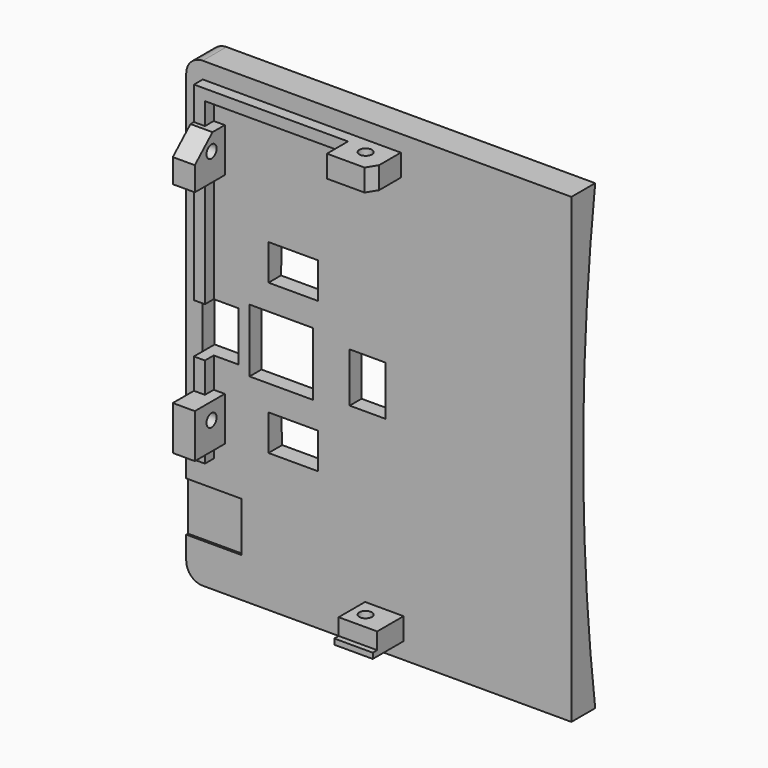
from build123d import *

# Parameters (mm, degrees)
SKETCH009_W             = 84
SKETCH009_H             = 70
PAD002_DEPTH            = 2
SKETCH010_W             = 2
SKETCH010_H             = 7
PAD003_DEPTH            = 2
SKETCH012_W             = 8
SKETCH012_H             = 6.8
PAD004_DEPTH            = 4
SKETCH013_W             = 7
SKETCH013_H             = 6
PAD005_DEPTH            = 4
SKETCH011_W             = 8
SKETCH011_H             = 6.8
PAD006_DEPTH            = 4
SKETCH014_R             = 1.15
POCKET002_DEPTH         = 81.001
SKETCH016_R             = 1.15
POCKET003_DEPTH         = 8.501
SKETCH018_W             = 11.5
SKETCH018_H             = 11.5
POCKET004_DEPTH         = 5
POCKET005_DEPTH         = 5
POCKET006_DEPTH         = 5
SKETCH021_W             = 1
SKETCH021_H             = 7
PAD007_DEPTH            = 1
SKETCH022_W             = 9
SKETCH022_H             = 10
POCKET007_DEPTH         = 0.4
FILLET_R                = 3
BODY002_PITCH_ANGLE     = -90
BODY002_PLACEMENT_ANGLE = 90
PAD001_DEPTH            = 35
SKETCH007_W             = 11.5
SKETCH007_H             = 11.5
POCKET001_DEPTH         = 13
FILLET001_R             = 3
SKETCH025_W             = 6.5
SKETCH025_H             = 9
SKETCH025_W_2           = 9
SKETCH025_H_2           = 6.5
POCKET008_DEPTH         = 8


with BuildPart() as back:
    # Sketch009 → Pad002 (new body)
    with BuildSketch(Plane.XY):
        Rectangle(SKETCH009_W, SKETCH009_H)
    extrude(amount=PAD002_DEPTH)

    # Sketch010 (on Face6 of Pad002) → Pad003 (join)
    with BuildSketch(Plane.XY.offset(2)):
        with Locations((-38, -1)):
            Rectangle(SKETCH010_W, SKETCH010_H)
        Polygon((-21, 32), (39, 32), (39, -4), (37, -4), (37, 30), (-21, 30), align=None)
    extrude(amount=PAD003_DEPTH)

    # Sketch012 (on Face15 of Pad003) → Pad004 (join)
    with BuildSketch(Plane.YZ.offset(39)):
        with Locations((0, 5.4)):
            Rectangle(SKETCH012_W, SKETCH012_H)
    extrude(amount=-PAD004_DEPTH)

    # Sketch013 (on Face9 of Pad004) → Pad005 (join)
    with BuildSketch(Plane(origin=(-39, 0, 0), x_dir=(0, -1, 0), z_dir=(-1, 0, 0))):
        with Locations((1, 5)):
            Rectangle(SKETCH013_W, SKETCH013_H)
    extrude(amount=-PAD005_DEPTH)

    # Sketch011 (on Face16 of Pad003) → Pad006 (join)
    with BuildSketch(Plane(origin=(0, 32, 0), x_dir=(-1, 0, 0), z_dir=(0, 1, 0))):
        with Locations((-29, 5.4)):
            Rectangle(SKETCH011_W, SKETCH011_H)
        with Locations((14, 5.4)):
            Rectangle(SKETCH011_W, SKETCH011_H)
    extrude(amount=-PAD006_DEPTH)

    # Sketch014 (on Face44 of Pad006) → Pocket002 (cut, through all)
    with BuildSketch(Plane.YZ.offset(39)):
        with Locations((0, 5)):
            Circle(SKETCH014_R)
    extrude(amount=-POCKET002_DEPTH, mode=Mode.SUBTRACT)

    # Sketch016 → Pocket003 (cut, through all)
    with BuildSketch(Plane.XZ.offset(-26.5)):
        with Locations((-13, 5)):
            Circle(SKETCH016_R)
        with Locations((30, 5)):
            Circle(SKETCH016_R)
    extrude(amount=-POCKET003_DEPTH, mode=Mode.SUBTRACT)

    # Sketch018 (on Face5 of Pocket003) → Pocket004 (cut)
    with BuildSketch(Plane.XY.offset(2)):
        with Locations((0, 17.75)):
            Rectangle(SKETCH018_W, SKETCH018_H)
    extrude(amount=-POCKET004_DEPTH, mode=Mode.SUBTRACT)

    # Sketch019 (on Face31 of Pocket004) → Pocket005 (cut)
    with BuildSketch(Plane.XZ.offset(-28)):
        Polygon((29.125944, 9.042901), (33.258869, 4.499726), (33.258869, 9.042901), align=None)
    extrude(amount=-POCKET005_DEPTH, mode=Mode.SUBTRACT)

    # Sketch020 (on Face36 of Pocket005) → Pocket006 (cut)
    with BuildSketch(Plane(origin=(35, 0, 0), x_dir=(0, -1, 0), z_dir=(-1, 0, 0))):
        Polygon((2.77547, 8.938441), (6.386171, 3.079567), (6.386171, 8.938441), align=None)
    extrude(amount=-POCKET006_DEPTH, mode=Mode.SUBTRACT)

    # Sketch021 (on Face40 of Pocket006) → Pad007 (join)
    with BuildSketch(Plane.XY.offset(8)):
        with Locations((-38.5, -1)):
            Rectangle(SKETCH021_W, SKETCH021_H)
    extrude(amount=PAD007_DEPTH)

    # Sketch022 (on Face5 of Pocket005) → Pocket007 (cut)
    with BuildSketch(Plane.XY.offset(2)):
        with Locations((-30.3, 30)):
            Rectangle(SKETCH022_W, SKETCH022_H)
    extrude(amount=-POCKET007_DEPTH, mode=Mode.SUBTRACT)

    # Fillet
    fillet_edges = [back.edges().sort_by_distance(p)[0] for p in [
        (42, 35, 1),
        (-42, 35, 1),
    ]]
    fillet(fillet_edges, radius=FILLET_R)


with BuildPart() as back_1:
    # Body002 pitch: moved
    add(back.part.rotate(Axis((0, 0, 0), (0, 1, 0)), BODY002_PITCH_ANGLE))


with BuildPart() as back_2:
    # Body002 placement: moved
    add(back_1.part.rotate(Axis((0, 0, 0), (0, 0, 1)), BODY002_PLACEMENT_ANGLE))


with BuildPart() as curve:
    # Sketch006 → Pad001 (new body, symmetric)
    with BuildSketch(Plane(origin=(0, 0, 0), x_dir=(0, 0, -1), z_dir=(1, 0, 0))):
        with BuildLine():
            ThreePointArc((-42, 3.4), (0, 0.674728), (42, 3.4))
            Line((42, -0.1), (42, 3.4))
            Line((-42, -0.1), (42, -0.1))
            Line((-42, 3.4), (-42, -0.1))
        make_face()
    extrude(amount=PAD001_DEPTH, both=True)

    # Sketch007 (on Face3 of Pad001) → Pocket001 (cut)
    with BuildSketch(Plane.XZ.offset(0.1)):
        with Locations((-17.75, 0)):
            Rectangle(SKETCH007_W, SKETCH007_H)
    extrude(amount=-POCKET001_DEPTH, mode=Mode.SUBTRACT)

    # Fillet001
    fillet001_edges = [curve.edges().sort_by_distance(p)[0] for p in [
        (-35, 1.65, -42),
        (-35, 1.65, 42),
    ]]
    fillet(fillet001_edges, radius=FILLET001_R)

    # Boolean: union Back
    add(back_2.part)

    # Sketch025 (on Face32 of Boolean) → Pocket008 (cut, symmetric)
    with BuildSketch(Plane.XZ.offset(2)):
        with Locations((-28.75, 0)):
            Rectangle(SKETCH025_W, SKETCH025_H)
        with Locations((-15.55, 13.625)):
            Rectangle(SKETCH025_W_2, SKETCH025_H_2)
        with Locations((-2.05, 0)):
            Rectangle(SKETCH025_W, SKETCH025_H)
        with Locations((-15.55, -13.625)):
            Rectangle(SKETCH025_W_2, SKETCH025_H_2)
    extrude(amount=POCKET008_DEPTH, both=True, mode=Mode.SUBTRACT)


solid = curve.part
